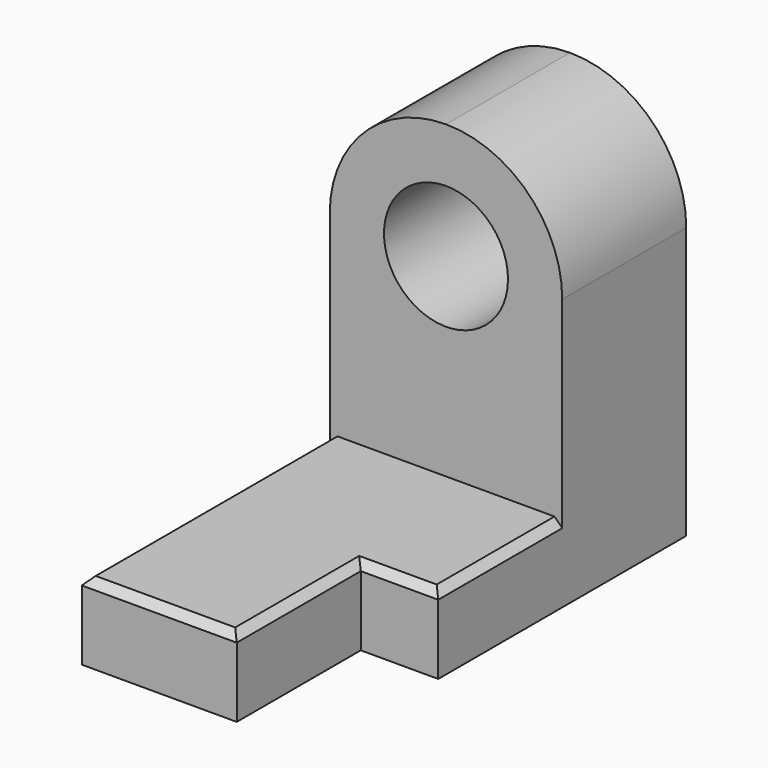
from build123d import *

# Parameters (mm, degrees)
F0_R     = 10.16
F1_DEPTH = 25.4
F2_W     = 25.4
F2_H     = 12.7
F3_DEPTH = 50.8
F4_W     = 12.7
F4_H     = 12.7
F5_DEPTH = 25.4
F6_SIZE  = 1.27


with BuildPart() as f1:
    # F0 (on Front) → F1 (new body)
    with BuildSketch(Plane.XZ):
        with BuildLine():
            Line((-19.05, 12.7), (-19.05, -31.75))
            Line((-19.05, -31.75), (19.05, -31.75))
            Line((19.05, -31.75), (19.05, 12.7))
            ThreePointArc((19.05, 12.7), (13.4703841797, 26.1703841835), (-5.4e-09, 31.75))
            ThreePointArc((-5.4e-09, 31.75), (-13.4703841835, 26.1703841797), (-19.05, 12.7))
        make_face()
        with Locations((0, 12.7)):
            Circle(F0_R, mode=Mode.SUBTRACT)
    extrude(amount=F1_DEPTH)

    # F2 (on face) → F3 (join)
    with BuildSketch(Plane.XZ.offset(25.4)):
        with Locations((-6.35, -25.4)):
            Rectangle(F2_W, F2_H)
    extrude(amount=F3_DEPTH)

    # F4 (on face) → F5 (join)
    with BuildSketch(Plane.XZ.offset(25.4)):
        with Locations((12.7, -25.4)):
            Rectangle(F4_W, F4_H)
    extrude(amount=F5_DEPTH)

    # F6
    f6_edges = [f1.edges().sort_by_distance(p)[0] for p in [
        (-19.05, -50.8, -19.05),
        (-6.35, -76.2, -19.05),
        (6.35, -63.5, -19.05),
        (12.7, -50.8, -19.05),
        (19.05, -38.1, -19.05),
    ]]
    chamfer(f6_edges, length=F6_SIZE)


solid = f1.part
